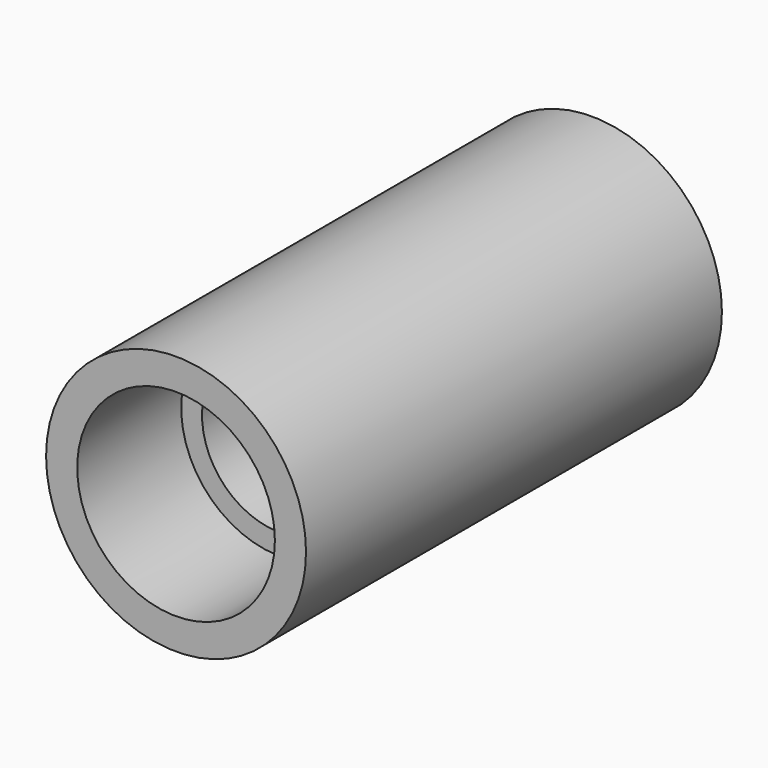
from build123d import *

# Parameters (mm, degrees)
F0_R     = 25
F0_R_2   = 15
F1_DEPTH = 100
F2_R     = 19.01316
F3_DEPTH = 25


with BuildPart() as f1:
    # F0 (on Front) → F1 (new body)
    with BuildSketch(Plane.XZ):
        Circle(F0_R)
        Circle(F0_R_2, mode=Mode.SUBTRACT)
    extrude(amount=F1_DEPTH)

    # F2 (on face) → F3 (cut)
    with BuildSketch(Plane.XZ.offset(100)):
        Circle(F2_R)
    extrude(amount=-F3_DEPTH, mode=Mode.SUBTRACT)


solid = f1.part
